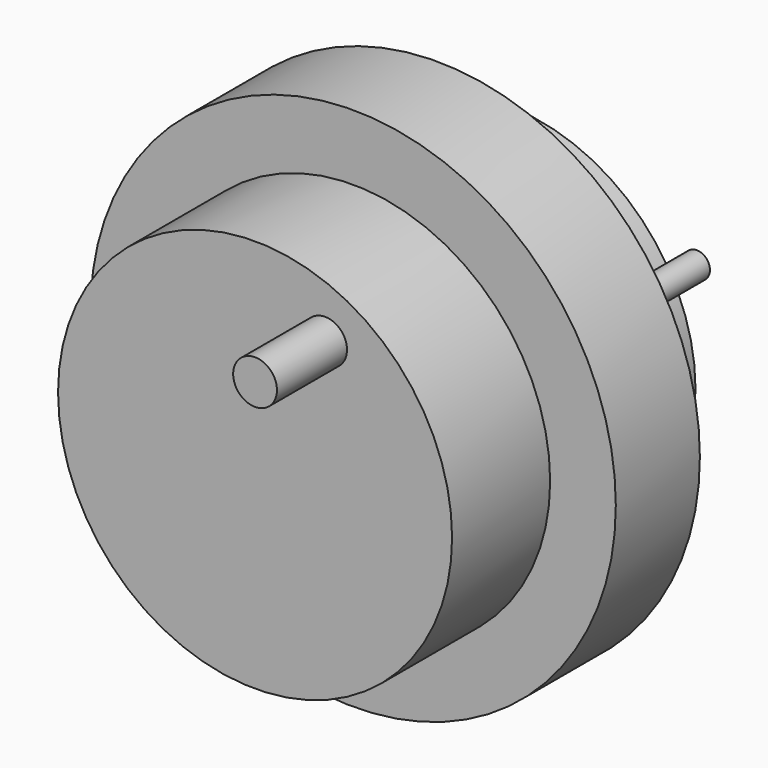
from build123d import *

# Parameters (mm, degrees)
SKETCH001_R             = 30
PAD001_DEPTH            = 12
SKETCH002_R             = 22.5
PAD002_DEPTH            = 14
SKETCH003_R             = 21.5
PAD003_DEPTH            = 10
SKETCH004_R             = 1.5
PAD004_DEPTH            = 10
SKETCH005_R             = 2.5
PAD005_DEPTH            = 10
BODY001_PLACEMENT_ANGLE = 90


with BuildPart() as part:
    # Sketch001 → Pad001 (new body)
    with BuildSketch(Plane.XY):
        Circle(SKETCH001_R)
    extrude(amount=PAD001_DEPTH)

    # Sketch002 (on Face3 of Pad001) → Pad002 (join)
    with BuildSketch(Plane.XY.offset(12)):
        Circle(SKETCH002_R)
    extrude(amount=PAD002_DEPTH)

    # Sketch003 (on Face2 of Pad002) → Pad003 (join)
    with BuildSketch(Plane(origin=(0, 0, 0), x_dir=(1, 0, 0), z_dir=(0, 0, -1))):
        Circle(SKETCH003_R)
    extrude(amount=PAD003_DEPTH)

    # Sketch004 (on Face2 of Pad003) → Pad004 (join)
    with BuildSketch(Plane(origin=(0, 0, 0), x_dir=(1, 0, 0), z_dir=(0, 0, -1))):
        with Locations((0, 25)):
            Circle(SKETCH004_R)
        with Locations((21.65, -12.5)):
            Circle(SKETCH004_R)
        with Locations((-21.65, -12.5)):
            Circle(SKETCH004_R)
    extrude(amount=PAD004_DEPTH)

    # Sketch005 (on Face13 of Pad004) → Pad005 (join)
    with BuildSketch(Plane.XY.offset(26)):
        with Locations((8, 15)):
            Circle(SKETCH005_R)
    extrude(amount=PAD005_DEPTH)


with BuildPart() as part_1:
    # Body001 placement: moved
    add(part.part.moved(Location((0, 0, 70))).rotate(Axis((0, 0, 70), (1, 0, 0)), BODY001_PLACEMENT_ANGLE))


solid = part_1.part
